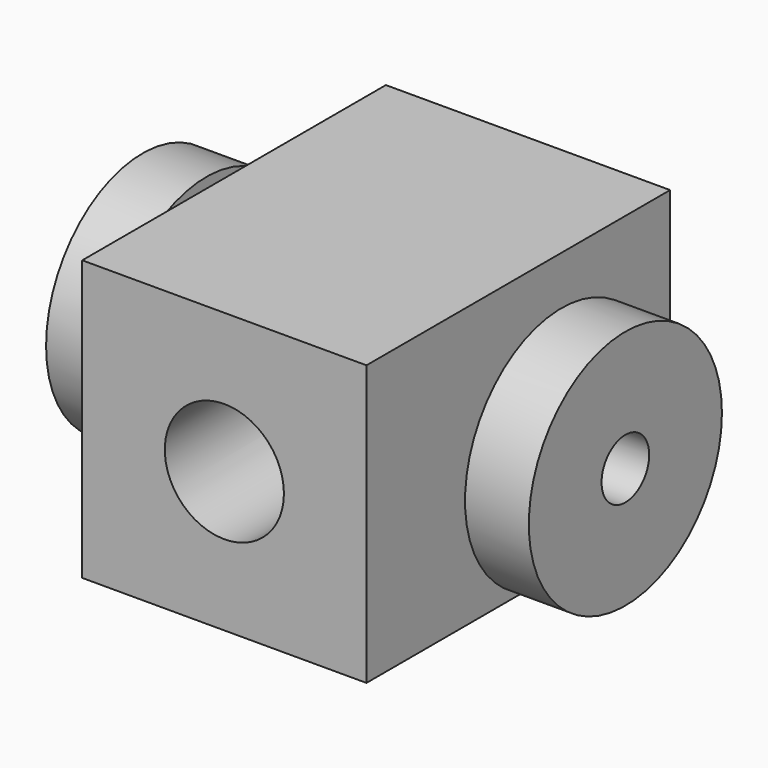
from build123d import *

# Parameters (mm, degrees)
F0_W      = 272.796
F0_H      = 268.3603210601
F1_DEPTH  = 191.516
F2_DEPTH  = 172.72
F4_R      = 115.824
F5_DEPTH  = 61.214
F6_R      = 50.8
F7_DEPTH  = 55.88
F9_COUNT  = 2
F10_R     = 28.575
F11_DEPTH = 701.04
F12_R     = 57.15
F13_DEPTH = 319.532


with BuildPart() as f1:
    # F0 (on Front) → F1 (new body)
    with BuildSketch(Plane.XZ):
        Rectangle(F0_W, F0_H)
    extrude(amount=F1_DEPTH)

    # F2 (add): a face of the model
    f2_faces = [f1.faces().sort_by_distance(p)[0] for p in [
        (0, 0, 0),
    ]]
    extrude(f2_faces, amount=F2_DEPTH)


with BuildPart() as f5:
    # F4 (on offset) → F5 (new body)
    with BuildSketch(Plane.YZ.offset(231.648)):
        Circle(F4_R)
    extrude(amount=-F5_DEPTH)


with BuildPart() as f7:
    # F6 (on face) → F7 (new body)
    with BuildSketch(Plane(origin=(170.434, 0, 0), x_dir=(0, -1, 0), z_dir=(-1, 0, 0))):
        Circle(F6_R)
    extrude(amount=F7_DEPTH)


with BuildPart() as f9_1:
    # F9: instance of F7
    add(f7.part.rotate(Axis((0, 0, 105.2917167544), (0, 0, 1)), 1 * 360 / F9_COUNT))


with BuildPart() as f9_2:
    # F9: instance of F5
    add(f5.part.rotate(Axis((0, 0, 105.2917167544), (0, 0, 1)), 1 * 360 / F9_COUNT))


with BuildPart() as f11_tool:
    # F10 (on face) → F11 (new body)
    with BuildSketch(Plane.YZ.offset(231.648)):
        Circle(F10_R)
    extrude(amount=-F11_DEPTH)


with BuildPart() as f1_1:
    add(f1.part)

    # F11: cut by f11_tool
    add(f11_tool.part, mode=Mode.SUBTRACT)

    # F12 (on face) → F13 (cut)
    with BuildSketch(Plane.XZ.offset(191.516)):
        Circle(F12_R)
    extrude(amount=-F13_DEPTH, mode=Mode.SUBTRACT)


with BuildPart() as f5_1:
    add(f5.part)

    # F11: cut by f11_tool
    add(f11_tool.part, mode=Mode.SUBTRACT)


with BuildPart() as f7_1:
    add(f7.part)

    # F11: cut by f11_tool
    add(f11_tool.part, mode=Mode.SUBTRACT)


with BuildPart() as f9_1_1:
    add(f9_1.part)

    # F11: cut by f11_tool
    add(f11_tool.part, mode=Mode.SUBTRACT)


with BuildPart() as f9_2_1:
    add(f9_2.part)

    # F11: cut by f11_tool
    add(f11_tool.part, mode=Mode.SUBTRACT)


solid = Compound([f1_1.part, f5_1.part, f7_1.part, f9_1_1.part, f9_2_1.part])
